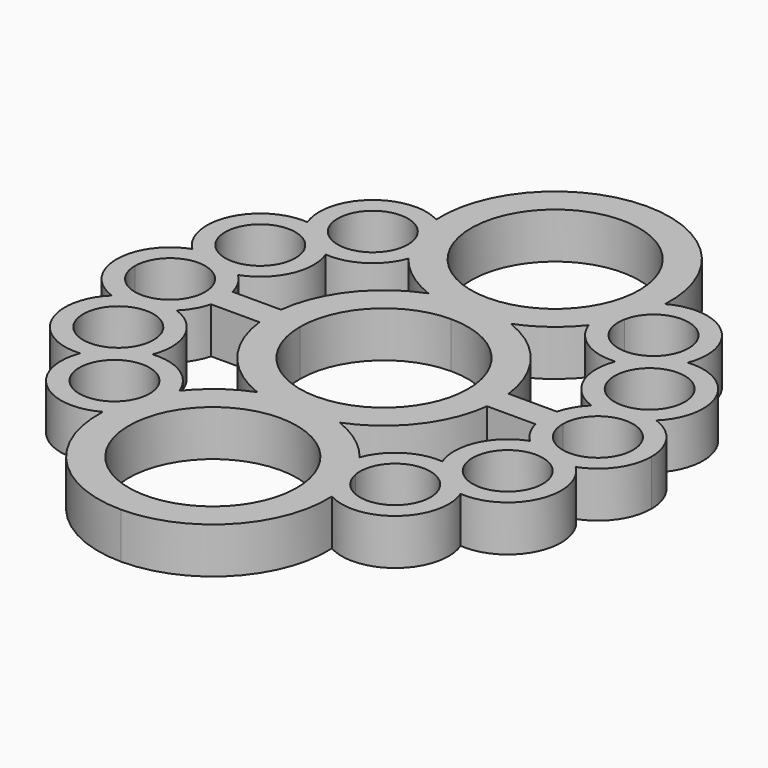
from build123d import *

# Parameters (mm, degrees)
F0_R     = 4.6
F1_DEPTH = 6


with BuildPart() as f1:
    # F0 (on Top) → F1 (new body)
    with BuildSketch(Plane.XY):
        with BuildLine():
            ThreePointArc((24.891389926, 18.5888493686), (22.9784031247, 26.4005892061), (14.9816027609, 27.2573165444))
            ThreePointArc((14.9816027609, 27.2573165444), (10.8660078188, 38.3406902131), (0, 43))
            ThreePointArc((0, 43), (-10.8660078188, 38.3406902131), (-14.9816027609, 27.2573165444))
            ThreePointArc((-14.9816027609, 27.2573165444), (-22.9784031247, 26.4005892061), (-24.891389926, 18.5888493686))
            ThreePointArc((-24.891389926, 18.5888493686), (-31.8489788648, 14.517633261), (-30.3598580405, 6.5951738193))
            ThreePointArc((-30.3598580405, 6.5951738193), (-33.7253300236, 4.0329934375), (-35.0005295806, 0))
            ThreePointArc((-35.0005295806, 0), (-33.7253300236, -4.0329934375), (-30.3598580405, -6.5951738193))
            ThreePointArc((-30.3598580405, -6.5951738193), (-31.8489788648, -14.517633261), (-24.891389926, -18.5888493686))
            ThreePointArc((-24.891389926, -18.5888493686), (-22.9784031247, -26.4005892061), (-14.9816027609, -27.2573165444))
            ThreePointArc((-14.9816027609, -27.2573165444), (-10.8660078188, -38.3406902131), (0, -43))
            ThreePointArc((0, -43), (10.8660078188, -38.3406902131), (14.9816027609, -27.2573165444))
            ThreePointArc((14.9816027609, -27.2573165444), (22.9784031247, -26.4005892061), (24.891389926, -18.5888493686))
            ThreePointArc((24.891389926, -18.5888493686), (31.8489788648, -14.517633261), (30.3598580405, -6.5951738193))
            ThreePointArc((30.3598580405, -6.5951738193), (33.7253300236, -4.0329934375), (35.0005295806, 0))
            ThreePointArc((35.0005295806, 0), (33.7253300236, 4.0329934375), (30.3598580405, 6.5951738193))
            ThreePointArc((30.3598580405, 6.5951738193), (31.8489788648, 14.517633261), (24.891389926, 18.5888493686))
        make_face()
        with BuildLine():
            ThreePointArc((-14.8758264908, -27.1976062589), (-14.9285851099, -27.2276908381), (-14.9816027609, -27.2573165444))
            ThreePointArc((-14.9816027609, -27.2573165444), (-14.9786558009, -27.2000810049), (-14.9754901797, -27.1428571429))
            ThreePointArc((-14.9754901797, -27.1428571429), (-14.9256834385, -27.1702773982), (-14.8758264908, -27.1976062589))
        make_face(mode=Mode.SUBTRACT)
        with BuildLine():
            ThreePointArc((-24.8159520893, -18.5820746623), (-24.8536618446, -18.5855640478), (-24.891389926, -18.5888493686))
            ThreePointArc((-24.891389926, -18.5888493686), (-24.8770993205, -18.5525001191), (-24.8626061224, -18.5162311717))
            ThreePointArc((-24.8626061224, -18.5162311717), (-24.8393005306, -18.5491680978), (-24.8159520893, -18.5820746623))
        make_face(mode=Mode.SUBTRACT)
        with BuildLine():
            ThreePointArc((-13.8527566028, -22.0022983914), (-22.9488297335, -20.6946741024), (-13.7696528117, -21.1318682462))
            ThreePointArc((-13.7696528117, -21.1318682462), (-13.79047589, -21.5690623901), (-13.8527566028, -22.0022983914))
        make_face(mode=Mode.SUBTRACT)
        with Locations((-25.4797781629, -11.6136218252)):
            Circle(F0_R, mode=Mode.SUBTRACT)
        with BuildLine():
            ThreePointArc((-30.2862454835, -6.6210646767), (-30.3230878398, -6.6082218239), (-30.3598580405, -6.5951738193))
            ThreePointArc((-30.3598580405, -6.5951738193), (-30.3317184772, -6.5679627813), (-30.3034271892, -6.5409095258))
            ThreePointArc((-30.3034271892, -6.5409095258), (-30.2948628315, -6.5809927807), (-30.2862454835, -6.6210646767))
        make_face(mode=Mode.SUBTRACT)
        with BuildLine():
            ThreePointArc((-11.7940033175, -18.731694559), (-14.6020801465, -15.2322584106), (-18.9580410486, -14.1566407028))
            ThreePointArc((-18.9580410486, -14.1566407028), (-19.1100662174, -8.7107319321), (-23.1204513202, -5.0232062958))
            ThreePointArc((-23.1204513202, -5.0232062958), (-21.9499221167, -3.5247199016), (-21.2258537854, -1.7665034355))
            Line((-21.2258537854, -1.7665034355), (-14.8956190074, -1.7665034355))
            ThreePointArc((-14.8956190074, -1.7665034355), (-11.8423881705, -9.2064022517), (-5.3851648071, -14))
            ThreePointArc((-5.3851648071, -14), (-8.9094437376, -15.9326136928), (-11.7940033175, -18.731694559))
        make_face(mode=Mode.SUBTRACT)
        with BuildLine():
            ThreePointArc((0, -39), (-11, -28), (0, -17))
            ThreePointArc((0, -17), (11, -28), (0, -39))
        make_face(mode=Mode.SUBTRACT)
        with BuildLine():
            ThreePointArc((14.9754901797, -27.1428571429), (14.9786558009, -27.2000810049), (14.9816027609, -27.2573165444))
            ThreePointArc((14.9816027609, -27.2573165444), (14.9285851099, -27.2276908381), (14.8758264908, -27.1976062589))
            ThreePointArc((14.8758264908, -27.1976062589), (14.9256834385, -27.1702773982), (14.9754901797, -27.1428571429))
        make_face(mode=Mode.SUBTRACT)
        with BuildLine():
            ThreePointArc((23.1204513202, -5.0232062958), (19.1100662174, -8.7107319321), (18.9580410486, -14.1566407028))
            ThreePointArc((18.9580410486, -14.1566407028), (14.6020801465, -15.2322584106), (11.7940033175, -18.731694559))
            ThreePointArc((11.7940033175, -18.731694559), (8.9094437376, -15.9326136928), (5.3851648071, -14))
            ThreePointArc((5.3851648071, -14), (11.8423881705, -9.2064022517), (14.8956190074, -1.7665034355))
            Line((14.8956190074, -1.7665034355), (21.2258537854, -1.7665034355))
            ThreePointArc((21.2258537854, -1.7665034355), (21.9499221167, -3.5247199016), (23.1204513202, -5.0232062958))
        make_face(mode=Mode.SUBTRACT)
        with BuildLine():
            ThreePointArc((13.8527566028, -22.0022983914), (17.9324586679, -16.5526913245), (22.9696528117, -21.1318682462))
            ThreePointArc((22.9696528117, -21.1318682462), (18.8068469556, -25.711045168), (13.8527566028, -22.0022983914))
        make_face(mode=Mode.SUBTRACT)
        with BuildLine():
            ThreePointArc((24.8626061224, -18.5162311717), (24.8770993205, -18.5525001191), (24.891389926, -18.5888493686))
            ThreePointArc((24.891389926, -18.5888493686), (24.8536618446, -18.5855640478), (24.8159520893, -18.5820746623))
            ThreePointArc((24.8159520893, -18.5820746623), (24.8393005306, -18.5491680978), (24.8626061224, -18.5162311717))
        make_face(mode=Mode.SUBTRACT)
        with Locations((25.4797781629, -11.6136218252)):
            Circle(F0_R, mode=Mode.SUBTRACT)
        with BuildLine():
            ThreePointArc((30.3034271892, -6.5409095258), (30.3317184772, -6.5679627813), (30.3598580405, -6.5951738193))
            ThreePointArc((30.3598580405, -6.5951738193), (30.3230878398, -6.6082218239), (30.2862454835, -6.6210646767))
            ThreePointArc((30.2862454835, -6.6210646767), (30.2948628315, -6.5809927807), (30.3034271892, -6.5409095258))
        make_face(mode=Mode.SUBTRACT)
        with BuildLine():
            ThreePointArc((-23.4005336588, 0), (-28.0005311978, -4.6047582899), (-32.6005287368, 0))
            ThreePointArc((-32.6005287368, 0), (-28.0005311978, 4.6047582899), (-23.4005336588, 0))
        make_face(mode=Mode.SUBTRACT)
        with BuildLine():
            ThreePointArc((-30.3034271892, 6.5409095258), (-30.3317184772, 6.5679627813), (-30.3598580405, 6.5951738193))
            ThreePointArc((-30.3598580405, 6.5951738193), (-30.3230878398, 6.6082218239), (-30.2862454835, 6.6210646767))
            ThreePointArc((-30.2862454835, 6.6210646767), (-30.2948628315, 6.5809927807), (-30.3034271892, 6.5409095258))
        make_face(mode=Mode.SUBTRACT)
        with Locations((-25.4797781629, 11.6136218252)):
            Circle(F0_R, mode=Mode.SUBTRACT)
        with BuildLine():
            ThreePointArc((-24.8626061224, 18.5162311717), (-24.8770993205, 18.5525001191), (-24.891389926, 18.5888493686))
            ThreePointArc((-24.891389926, 18.5888493686), (-24.8536618446, 18.5855640478), (-24.8159520893, 18.5820746623))
            ThreePointArc((-24.8159520893, 18.5820746623), (-24.8393005306, 18.5491680978), (-24.8626061224, 18.5162311717))
        make_face(mode=Mode.SUBTRACT)
        with BuildLine():
            ThreePointArc((-13.8527566028, 22.0022983914), (-13.79047589, 21.5690623901), (-13.7696528117, 21.1318682462))
            ThreePointArc((-13.7696528117, 21.1318682462), (-22.9488297335, 20.6946741024), (-13.8527566028, 22.0022983914))
        make_face(mode=Mode.SUBTRACT)
        with BuildLine():
            ThreePointArc((-11.7940033175, 18.731694559), (-8.9094437376, 15.9326136928), (-5.3851648071, 14))
            ThreePointArc((-5.3851648071, 14), (-11.8423881705, 9.2064022517), (-14.8956190074, 1.7665034355))
            Line((-14.8956190074, 1.7665034355), (-21.2258537854, 1.7665034355))
            ThreePointArc((-21.2258537854, 1.7665034355), (-21.9499221167, 3.5247199016), (-23.1204513202, 5.0232062958))
            ThreePointArc((-23.1204513202, 5.0232062958), (-19.1100662174, 8.7107319321), (-18.9580410486, 14.1566407028))
            ThreePointArc((-18.9580410486, 14.1566407028), (-14.6020801465, 15.2322584106), (-11.7940033175, 18.731694559))
        make_face(mode=Mode.SUBTRACT)
        with BuildLine():
            ThreePointArc((-14.9754901797, 27.1428571429), (-14.9786558009, 27.2000810049), (-14.9816027609, 27.2573165444))
            ThreePointArc((-14.9816027609, 27.2573165444), (-14.9285851099, 27.2276908381), (-14.8758264908, 27.1976062589))
            ThreePointArc((-14.8758264908, 27.1976062589), (-14.9256834385, 27.1702773982), (-14.9754901797, 27.1428571429))
        make_face(mode=Mode.SUBTRACT)
        with BuildLine():
            ThreePointArc((0, 11), (7.7781745931, 7.7781745931), (11, 0))
            ThreePointArc((11, 0), (7.7781745931, -7.7781745931), (0, -11))
            ThreePointArc((0, -11), (-7.7781745931, -7.7781745931), (-11, 0))
            ThreePointArc((-11, 0), (-7.7781745931, 7.7781745931), (0, 11))
        make_face(mode=Mode.SUBTRACT)
        with BuildLine():
            Line((21.2258537854, 1.7665034355), (14.8956190074, 1.7665034355))
            ThreePointArc((14.8956190074, 1.7665034355), (11.8423881705, 9.2064022517), (5.3851648071, 14))
            ThreePointArc((5.3851648071, 14), (8.9094437376, 15.9326136928), (11.7940033175, 18.731694559))
            ThreePointArc((11.7940033175, 18.731694559), (14.6020801465, 15.2322584106), (18.9580410486, 14.1566407028))
            ThreePointArc((18.9580410486, 14.1566407028), (19.1100662174, 8.7107319321), (23.1204513202, 5.0232062958))
            ThreePointArc((23.1204513202, 5.0232062958), (21.9499221167, 3.5247199016), (21.2258537854, 1.7665034355))
        make_face(mode=Mode.SUBTRACT)
        with BuildLine():
            ThreePointArc((23.4005336588, 0), (28.0005311978, 4.6047582899), (32.6005287368, 0))
            ThreePointArc((32.6005287368, 0), (28.0005311978, -4.6047582899), (23.4005336588, 0))
        make_face(mode=Mode.SUBTRACT)
        with BuildLine():
            ThreePointArc((30.2862454835, 6.6210646767), (30.3230878398, 6.6082218239), (30.3598580405, 6.5951738193))
            ThreePointArc((30.3598580405, 6.5951738193), (30.3317184772, 6.5679627813), (30.3034271892, 6.5409095258))
            ThreePointArc((30.3034271892, 6.5409095258), (30.2948628315, 6.5809927807), (30.2862454835, 6.6210646767))
        make_face(mode=Mode.SUBTRACT)
        with Locations((25.4797781629, 11.6136218252)):
            Circle(F0_R, mode=Mode.SUBTRACT)
        with BuildLine():
            ThreePointArc((13.8527566028, 22.0022983914), (18.8068469556, 25.711045168), (22.9696528117, 21.1318682462))
            ThreePointArc((22.9696528117, 21.1318682462), (17.9324586679, 16.5526913245), (13.8527566028, 22.0022983914))
        make_face(mode=Mode.SUBTRACT)
        with BuildLine():
            ThreePointArc((24.8159520893, 18.5820746623), (24.8536618446, 18.5855640478), (24.891389926, 18.5888493686))
            ThreePointArc((24.891389926, 18.5888493686), (24.8770993205, 18.5525001191), (24.8626061224, 18.5162311717))
            ThreePointArc((24.8626061224, 18.5162311717), (24.8393005306, 18.5491680978), (24.8159520893, 18.5820746623))
        make_face(mode=Mode.SUBTRACT)
        with BuildLine():
            ThreePointArc((0, 39), (11, 28), (0, 17))
            ThreePointArc((0, 17), (-11, 28), (0, 39))
        make_face(mode=Mode.SUBTRACT)
        with BuildLine():
            ThreePointArc((14.9816027609, 27.2573165444), (14.9786558009, 27.2000810049), (14.9754901797, 27.1428571429))
            ThreePointArc((14.9754901797, 27.1428571429), (14.9256834385, 27.1702773982), (14.8758264908, 27.1976062589))
            ThreePointArc((14.8758264908, 27.1976062589), (14.9285851099, 27.2276908381), (14.9816027609, 27.2573165444))
        make_face(mode=Mode.SUBTRACT)
        with BuildLine():
            ThreePointArc((14.8758264908, 27.1976062589), (14.9256834385, 27.1702773982), (14.9754901797, 27.1428571429))
            ThreePointArc((14.9754901797, 27.1428571429), (14.9786558009, 27.2000810049), (14.9816027609, 27.2573165444))
            ThreePointArc((14.9816027609, 27.2573165444), (14.9285851099, 27.2276908381), (14.8758264908, 27.1976062589))
        make_face()
        with BuildLine():
            ThreePointArc((-14.8758264908, 27.1976062589), (-14.9285851099, 27.2276908381), (-14.9816027609, 27.2573165444))
            ThreePointArc((-14.9816027609, 27.2573165444), (-14.9786558009, 27.2000810049), (-14.9754901797, 27.1428571429))
            ThreePointArc((-14.9754901797, 27.1428571429), (-14.9256834385, 27.1702773982), (-14.8758264908, 27.1976062589))
        make_face()
        with BuildLine():
            ThreePointArc((-14.9754901797, -27.1428571429), (-14.9786558009, -27.2000810049), (-14.9816027609, -27.2573165444))
            ThreePointArc((-14.9816027609, -27.2573165444), (-14.9285851099, -27.2276908381), (-14.8758264908, -27.1976062589))
            ThreePointArc((-14.8758264908, -27.1976062589), (-14.9256834385, -27.1702773982), (-14.9754901797, -27.1428571429))
        make_face()
        with BuildLine():
            ThreePointArc((14.8758264908, -27.1976062589), (14.9285851099, -27.2276908381), (14.9816027609, -27.2573165444))
            ThreePointArc((14.9816027609, -27.2573165444), (14.9786558009, -27.2000810049), (14.9754901797, -27.1428571429))
            ThreePointArc((14.9754901797, -27.1428571429), (14.9256834385, -27.1702773982), (14.8758264908, -27.1976062589))
        make_face()
        with BuildLine():
            ThreePointArc((-30.2862454835, 6.6210646767), (-30.3230878398, 6.6082218239), (-30.3598580405, 6.5951738193))
            ThreePointArc((-30.3598580405, 6.5951738193), (-30.3317184772, 6.5679627813), (-30.3034271892, 6.5409095258))
            ThreePointArc((-30.3034271892, 6.5409095258), (-30.2948628315, 6.5809927807), (-30.2862454835, 6.6210646767))
        make_face()
        with BuildLine():
            ThreePointArc((-30.3034271892, -6.5409095258), (-30.3317184772, -6.5679627813), (-30.3598580405, -6.5951738193))
            ThreePointArc((-30.3598580405, -6.5951738193), (-30.3230878398, -6.6082218239), (-30.2862454835, -6.6210646767))
            ThreePointArc((-30.2862454835, -6.6210646767), (-30.2948628315, -6.5809927807), (-30.3034271892, -6.5409095258))
        make_face()
        with BuildLine():
            ThreePointArc((30.2862454835, -6.6210646767), (30.3230878398, -6.6082218239), (30.3598580405, -6.5951738193))
            ThreePointArc((30.3598580405, -6.5951738193), (30.3317184772, -6.5679627813), (30.3034271892, -6.5409095258))
            ThreePointArc((30.3034271892, -6.5409095258), (30.2948628315, -6.5809927807), (30.2862454835, -6.6210646767))
        make_face()
        with BuildLine():
            ThreePointArc((30.3034271892, 6.5409095258), (30.3317184772, 6.5679627813), (30.3598580405, 6.5951738193))
            ThreePointArc((30.3598580405, 6.5951738193), (30.3230878398, 6.6082218239), (30.2862454835, 6.6210646767))
            ThreePointArc((30.2862454835, 6.6210646767), (30.2948628315, 6.5809927807), (30.3034271892, 6.5409095258))
        make_face()
        with BuildLine():
            ThreePointArc((-24.8159520893, 18.5820746623), (-24.8536618446, 18.5855640478), (-24.891389926, 18.5888493686))
            ThreePointArc((-24.891389926, 18.5888493686), (-24.8770993205, 18.5525001191), (-24.8626061224, 18.5162311717))
            ThreePointArc((-24.8626061224, 18.5162311717), (-24.8393005306, 18.5491680978), (-24.8159520893, 18.5820746623))
        make_face()
        with BuildLine():
            ThreePointArc((-24.8626061224, -18.5162311717), (-24.8770993205, -18.5525001191), (-24.891389926, -18.5888493686))
            ThreePointArc((-24.891389926, -18.5888493686), (-24.8536618446, -18.5855640478), (-24.8159520893, -18.5820746623))
            ThreePointArc((-24.8159520893, -18.5820746623), (-24.8393005306, -18.5491680978), (-24.8626061224, -18.5162311717))
        make_face()
        with BuildLine():
            ThreePointArc((24.8159520893, -18.5820746623), (24.8536618446, -18.5855640478), (24.891389926, -18.5888493686))
            ThreePointArc((24.891389926, -18.5888493686), (24.8770993205, -18.5525001191), (24.8626061224, -18.5162311717))
            ThreePointArc((24.8626061224, -18.5162311717), (24.8393005306, -18.5491680978), (24.8159520893, -18.5820746623))
        make_face()
        with BuildLine():
            ThreePointArc((24.8626061224, 18.5162311717), (24.8770993205, 18.5525001191), (24.891389926, 18.5888493686))
            ThreePointArc((24.891389926, 18.5888493686), (24.8536618446, 18.5855640478), (24.8159520893, 18.5820746623))
            ThreePointArc((24.8159520893, 18.5820746623), (24.8393005306, 18.5491680978), (24.8626061224, 18.5162311717))
        make_face()
    extrude(amount=F1_DEPTH)


solid = f1.part
